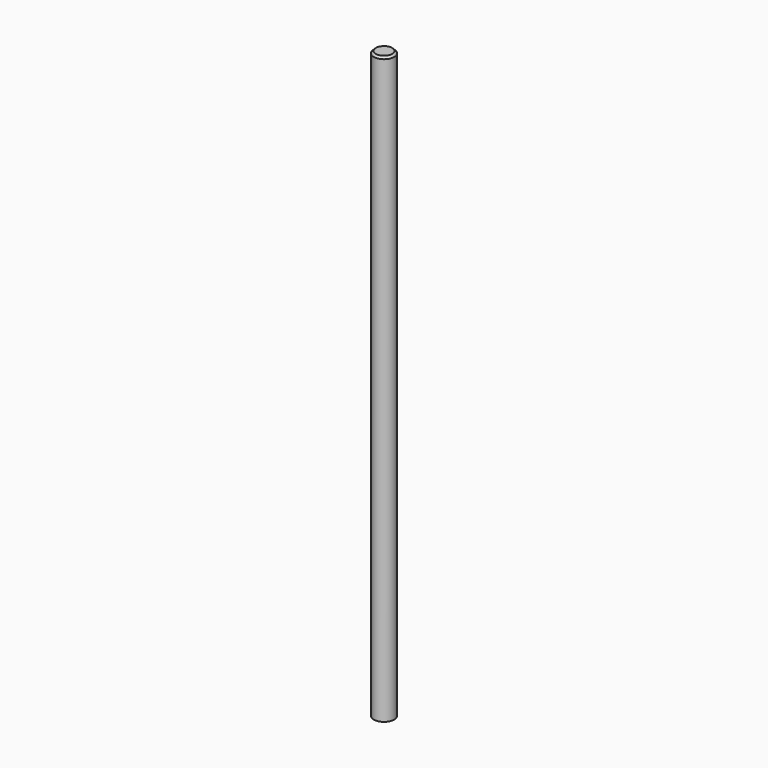
from build123d import *

# Parameters (mm, degrees)
F0_R     = 1.5
F1_DEPTH = 43
F2_SIZE  = 0.3


with BuildPart() as f1:
    # F0 (on Top) → F1 (new body, symmetric)
    with BuildSketch(Plane.XY):
        Circle(F0_R)
    extrude(amount=F1_DEPTH, both=True)

    # F2
    f2_edges = [f1.edges().sort_by_distance(p)[0] for p in [
        (-1.5, 0, 43),
    ]]
    chamfer(f2_edges, length=F2_SIZE)


solid = f1.part
